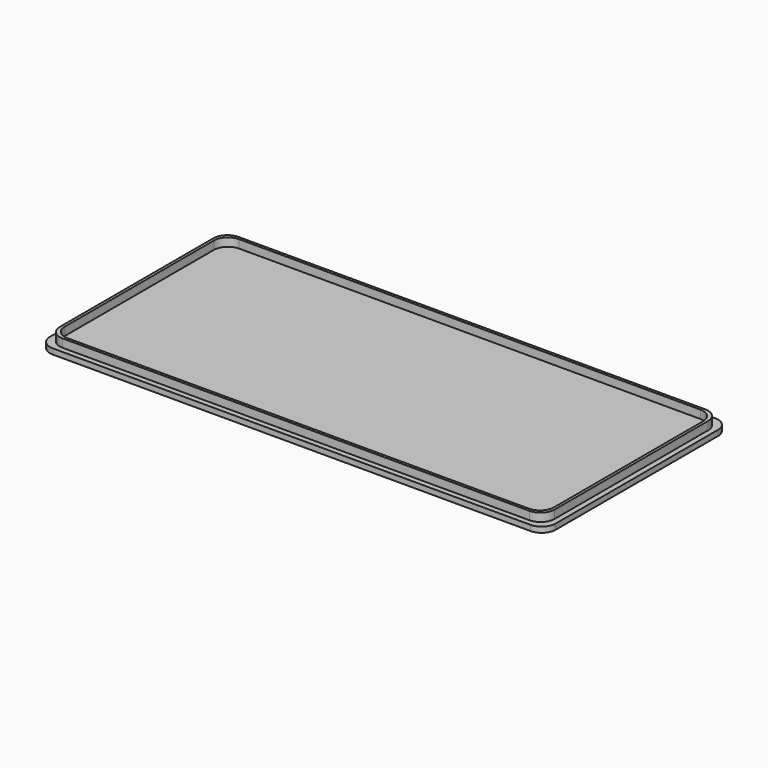
from build123d import *

# Parameters (mm, degrees)
F0_W     = 184
F0_H     = 84
F0_W_2   = 180
F0_H_2   = 80
F0_W_3   = 178
F0_H_3   = 78
F1_DEPTH = 2
F2_DEPTH = 5
F3_R     = 5.08
F3_2_R   = 5.08


with BuildPart() as f1:
    # F0 (on Top) → F1 (new body)
    with BuildSketch(Plane.XY):
        Rectangle(F0_W, F0_H)
        Rectangle(F0_W_2, F0_H_2, mode=Mode.SUBTRACT)
        Rectangle(F0_W_2, F0_H_2)
        Rectangle(F0_W_3, F0_H_3, mode=Mode.SUBTRACT)
        Rectangle(F0_W_3, F0_H_3)
    extrude(amount=F1_DEPTH)

    # F3#2
    f3_2_edges = [f1.edges().sort_by_distance(p)[0] for p in [
        (-92, 42, 1),
        (-92, -42, 1),
        (92, 42, 1),
        (92, -42, 1),
    ]]
    fillet(f3_2_edges, radius=F3_2_R)


with BuildPart() as f2:
    # F0 (on Top) → F2 (new body)
    with BuildSketch(Plane.XY):
        Rectangle(F0_W_2, F0_H_2)
        Rectangle(F0_W_3, F0_H_3, mode=Mode.SUBTRACT)
    extrude(amount=F2_DEPTH)

    # F3
    f3_edges = [f2.edges().sort_by_distance(p)[0] for p in [
        (-89, 39, 2.5),
        (-90, 40, 2.5),
        (-90, -40, 2.5),
        (-89, -39, 2.5),
        (90, 40, 2.5),
        (89, 39, 2.5),
        (90, -40, 2.5),
        (89, -39, 2.5),
    ]]
    fillet(f3_edges, radius=F3_R)


solid = Compound([f1.part, f2.part])
